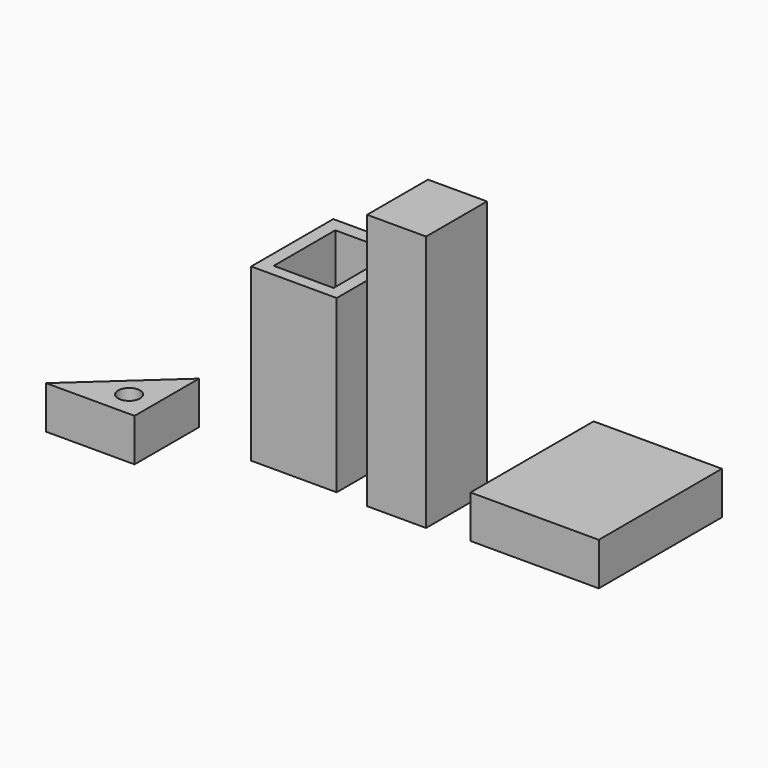
from build123d import *

# Parameters (mm, degrees)
F0_R     = 1.281761
F3_DEPTH = 5
F1_W     = 10
F1_H     = 12
F1_W_2   = 7
F1_H_2   = 9
F4_DEPTH = 20
F2_W     = 6.9
F2_H     = 8.9
F5_DEPTH = 30
F6_W     = 15
F6_H     = 18
F7_DEPTH = 5


with BuildPart() as f3:
    # F0 (on Top) → F3 (new body)
    with BuildSketch(Plane.XY):
        Polygon((-29.028, -13.621232), (-29.028, -4.191335), (-39.375804, -13.621232), align=None)
        with Locations((-32.064408, -10.622831)):
            Circle(F0_R, mode=Mode.SUBTRACT)
    extrude(amount=F3_DEPTH)


with BuildPart() as f4:
    # F1 (on Top) → F4 (new body)
    with BuildSketch(Plane.XY):
        with Locations((-16.168614, -0.403789)):
            Rectangle(F1_W, F1_H)
        with Locations((-16.13925, -0.523452)):
            Rectangle(F1_W_2, F1_H_2, mode=Mode.SUBTRACT)
    extrude(amount=F4_DEPTH)


with BuildPart() as f5:
    # F2 (on Top) → F5 (new body)
    with BuildSketch(Plane.XY):
        with Locations((-3.840489, -2.361221)):
            Rectangle(F2_W, F2_H)
    extrude(amount=F5_DEPTH)


with BuildPart() as f7:
    # F6 (on Top) → F7 (new body)
    with BuildSketch(Plane.XY):
        with Locations((11.88155, 2.710978)):
            Rectangle(F6_W, F6_H)
    extrude(amount=F7_DEPTH)


solid = Compound([f3.part, f4.part, f5.part, f7.part])
